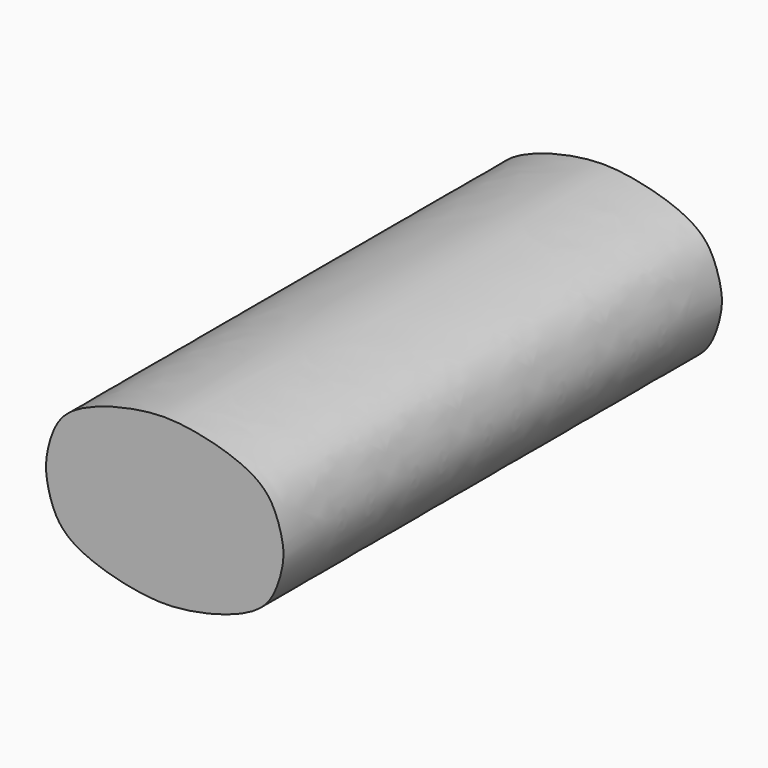
from build123d import *

# Parameters (mm, degrees)
F1_DEPTH = 150


with BuildPart() as f1:
    # F0 (on Front) → F1 (new body)
    with BuildSketch(Plane.XZ):
        with BuildLine():
            add(Edge.make_bspline(
                [(0, 22.5), (7.5946395885, 22.5), (25.3776059835, 18.2042722527), (30.9880198471, 9.1614564029), (32.583515133, 2.4874583419), (32.583515133, 0)],
                knots=[0, 0, 0, 0, 0.4483672647, 0.7351295246, 1, 1, 1, 1], degree=3))
            add(Edge.make_bspline(
                [(0, 22.5), (-7.6082786399, 22.5), (-25.334549235, 18.2006725777), (-31.0678554909, 9.1737533496), (-32.416484867, 2.4850251557), (-32.416484867, 0)],
                knots=[0, 0, 0, 0, 0.4486025248, 0.7355152501, 1, 1, 1, 1], degree=3))
            add(Edge.make_bspline(
                [(0, -22.5), (-7.6082786399, -22.5), (-25.334549235, -18.2006725777), (-31.0678554909, -9.1737533496), (-32.416484867, -2.4850251557), (-32.416484867, 0)],
                knots=[0, 0, 0, 0, 0.4486025248, 0.7355152501, 1, 1, 1, 1], degree=3))
            add(Edge.make_bspline(
                [(0, -22.5), (7.5946395885, -22.5), (25.3776059835, -18.2042722527), (30.9880198471, -9.1614564029), (32.583515133, -2.4874583419), (32.583515133, 0)],
                knots=[0, 0, 0, 0, 0.4483672647, 0.7351295246, 1, 1, 1, 1], degree=3))
        make_face()
    extrude(amount=F1_DEPTH)


solid = f1.part
